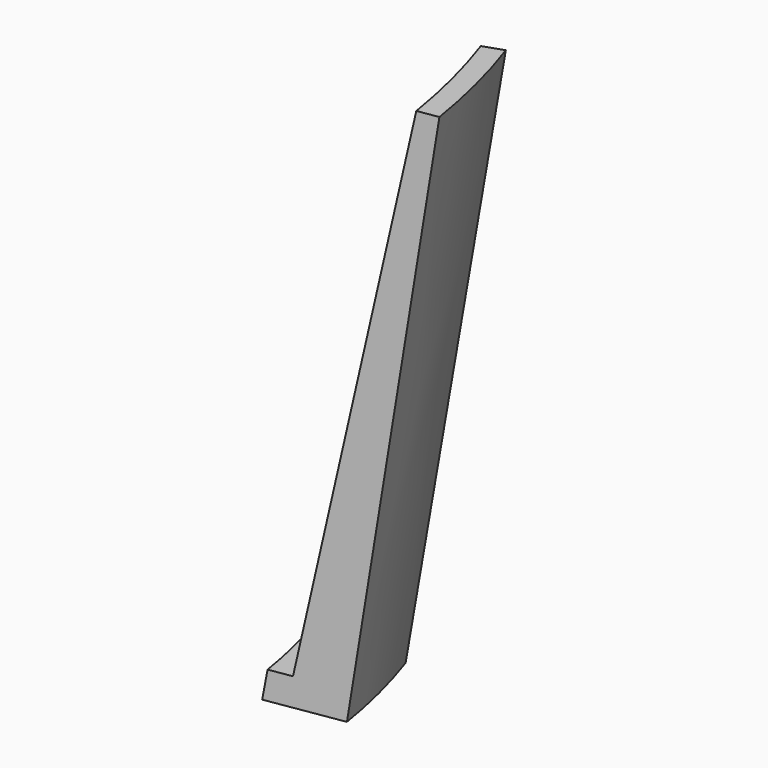
from build123d import *

# Parameters (mm, degrees)
CONE009_ANGLE           = 30
CONE007_ANGLE           = 30
CONE008_ANGLE           = 10
CONE008_PLACEMENT_ANGLE = 9.000003


with BuildPart() as obj1:
    # Cone009 → Cone009 (revolve)
    with BuildSketch(Plane(origin=(0, 0, 12), x_dir=(1, 0, 0), z_dir=(0, -1, 0))):
        Polygon((0, 0), (40, 0), (47, 40), (0, 40), align=None)
    revolve(axis=Axis((0, 0, 12), (0, 0, 1)), revolution_arc=CONE009_ANGLE)


with BuildPart() as obj2:
    # Cone007 → Cone007 (revolve)
    with BuildSketch(Plane(origin=(0, 0, 14), x_dir=(1, 0, 0), z_dir=(0, -1, 0))):
        Polygon((0, 0), (42, 0), (50, 38), (0, 38), align=None)
    revolve(axis=Axis((0, 0, 14), (0, 0, 1)), revolution_arc=CONE007_ANGLE)


with BuildPart() as obj3:
    # Cone008 → Cone008 (revolve)
    with BuildSketch(Plane.XZ):
        Polygon((0, 0), (45.5, 0), (51.5, 40), (0, 40), align=None)
    revolve(axis=Axis((0, 0, 0), (0, 0, 1)), revolution_arc=CONE008_ANGLE)


with BuildPart() as obj3_1:
    # Cone008 placement: moved
    add(obj3.part.moved(Location((0, 0, 12))).rotate(Axis((0, 0, 12), (0, 0, 1)), CONE008_PLACEMENT_ANGLE))

    # Cut006: cut obj2
    add(obj2.part, mode=Mode.SUBTRACT)

    # Cut007: cut obj1
    add(obj1.part, mode=Mode.SUBTRACT)


solid = obj3_1.part
